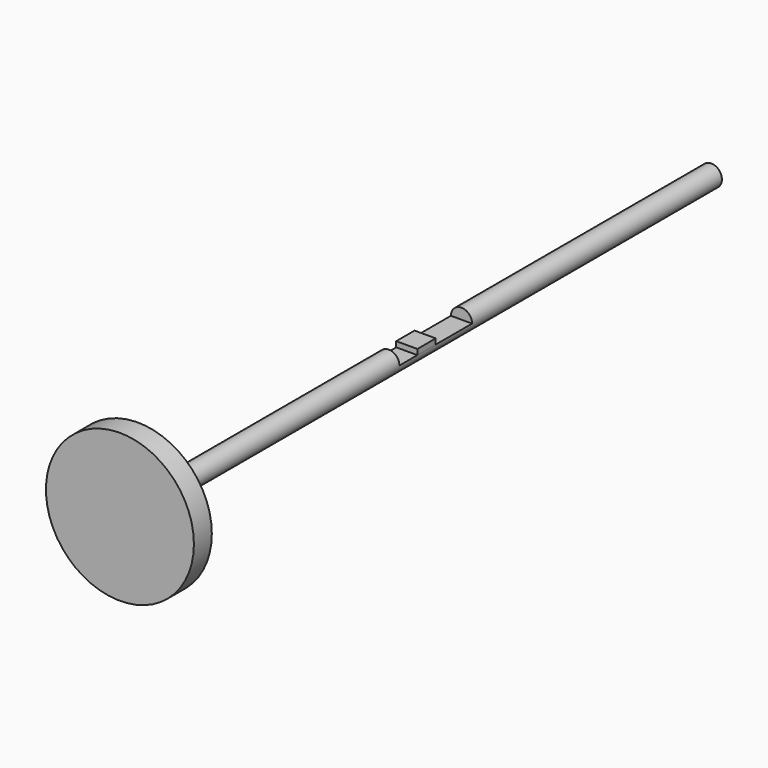
from build123d import *

# Parameters (mm, degrees)
F0_R      = 1.5
F1_DEPTH  = 101.6
F2_R      = 10.4851931458
F3_DEPTH  = 3.175
F4_W      = 10.1616978645
F4_H      = 12.8714852035
F5_DEPTH  = 20.24025
F7_DEPTH  = 8.96719
F9_W      = 3
F9_H      = 3.249252215
F10_DEPTH = 0.77209


with BuildPart() as f1:
    # F0 (on Front) → F1 (new body)
    with BuildSketch(Plane.XZ):
        Circle(F0_R)
    extrude(amount=F1_DEPTH)

    # F2 (on face) → F3 (join)
    with BuildSketch(Plane.XZ.offset(101.6)):
        Circle(F2_R)
    extrude(amount=F3_DEPTH)

    # F4 (on Top) → F5 (cut)
    with BuildSketch(Plane.XY):
        with Locations((0, -50.7002491504)):
            Rectangle(F4_W, F4_H)
    extrude(amount=F5_DEPTH, mode=Mode.SUBTRACT)

    # F9 (on face) → F10 (join)
    with BuildSketch(Plane.XY):
        with Locations((0, -52.3248752579)):
            Rectangle(F9_W, F9_H)
    extrude(amount=F10_DEPTH)


with BuildPart() as f7:
    # F6 (on face) → F7 (new body)
    with BuildSketch(Plane.XZ.offset(44.2645065486)):
        with BuildLine():
            Line((0.595669005, 1.3766547993), (-0.595669005, 1.3766547993))
            Line((-0.595669005, 1.3766547993), (-0.595669005, 0.1358163867))
            Line((-0.595669005, 0.1358163867), (1.3222411928, 0.1358163867))
            Line((1.3222411928, 0.1358163867), (1.3222411928, 0.7082924736))
            ThreePointArc((1.3222411928, 0.7082924736), (1.0155155987, 1.1039601753), (0.595669005, 1.3766547993))
        make_face()
        with BuildLine():
            Line((1.3222411928, 1.3766547993), (0.595669005, 1.3766547993))
            ThreePointArc((0.595669005, 1.3766547993), (1.0155155987, 1.1039601753), (1.3222411928, 0.7082924736))
            Line((1.3222411928, 0.7082924736), (1.3222411928, 1.3766547993))
        make_face()
    extrude(amount=F7_DEPTH)


solid = f1.part
